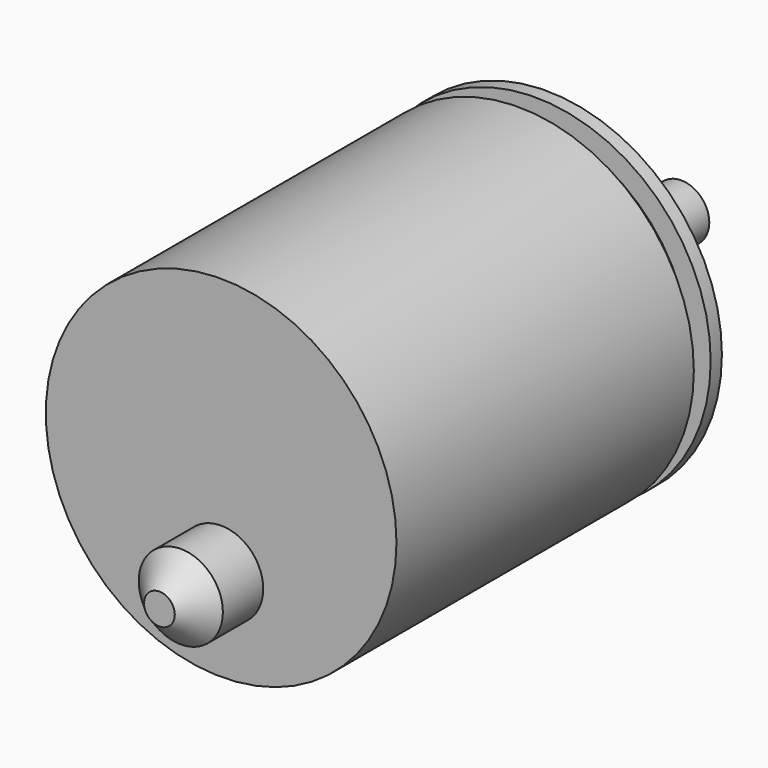
from build123d import *

# Parameters (mm, degrees)
F0_W     = 2
F0_H     = 10
F3_D     = 3
F3_DEPTH = 4
F3_TIP   = 0.9012909285
F4_R     = 3
F5_DEPTH = 5.5
F6_SIZE  = 1.905


with BuildPart() as f1:
    # F0 (on Top) → F1 (revolve)
    with BuildSketch(Plane.XY):
        Polygon((6, 29), (0, 29), (0, 0), (12.5, 0), (12.5, 26.5), (11, 26.5), (11, 28), (12.5, 28), (12.5, 29), align=None)
        Polygon((0, 31), (0, 29), (6, 29), (6, 31), (2, 31), align=None)
        with Locations((1, 36)):
            Rectangle(F0_W, F0_H)
    revolve(axis=Axis((0, 14.5, 0), (0, -1, 0)))

    # F3
    with Locations(Plane(origin=(0, 29, 0), x_dir=(-1, 0, 0), z_dir=(0, 1, 0))):
        with Locations((0, 9), (0, -9)):
            Hole(F3_D / 2, depth=F3_DEPTH)
            with Locations((0, 0, -(F3_DEPTH + F3_TIP / 2))):  # 118° drill point
                Cone(0, F3_D / 2, F3_TIP, mode=Mode.SUBTRACT)

    # F4 (on face) → F5 (join)
    with BuildSketch(Plane.XZ):
        with Locations((0, -6)):
            Circle(F4_R)
    extrude(amount=F5_DEPTH)

    # F6
    f6_edges = [f1.edges().sort_by_distance(p)[0] for p in [
        (-3, -5.5, -6),
    ]]
    chamfer(f6_edges, length=F6_SIZE)


solid = f1.part
